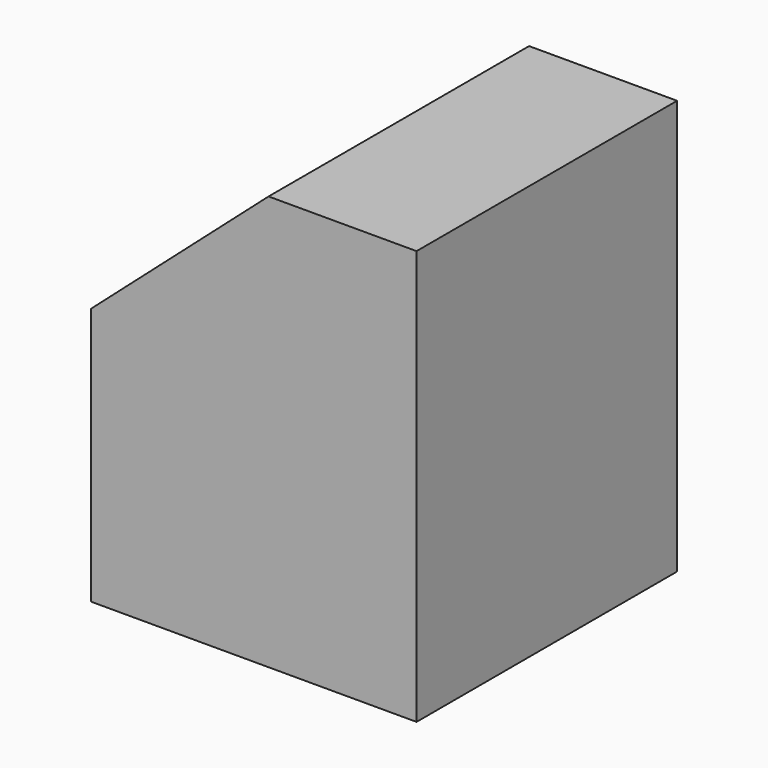
from build123d import *

# Parameters (mm, degrees)
F1_DEPTH = 5.5
F2_R     = 3.5
F3_DEPTH = 7


with BuildPart() as f1:
    # F0 (on Front) → F1 (new body, symmetric)
    with BuildSketch(Plane.XZ):
        Polygon((5.5, -7), (5.5, 7), (0.5, 7), (-5.5, 1.708497), (-5.5, -7), align=None)
    extrude(amount=F1_DEPTH, both=True)

    # F2 (on face) → F3 (cut)
    with BuildSketch(Plane(origin=(0, 0, -7), x_dir=(1, 0, 0), z_dir=(0, 0, -1))):
        Circle(F2_R)
    extrude(amount=-F3_DEPTH, mode=Mode.SUBTRACT)


solid = f1.part
